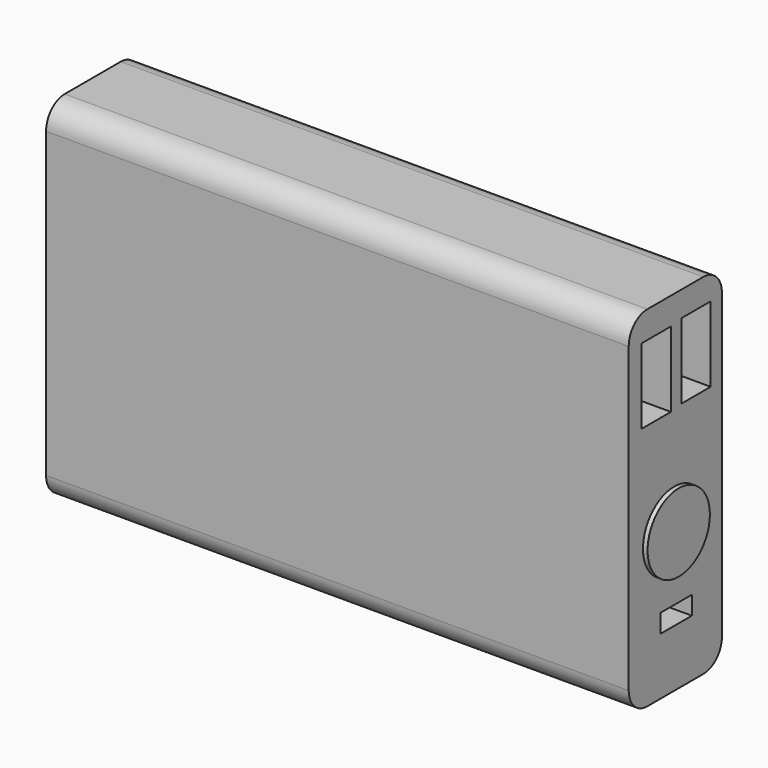
from build123d import *

# Parameters (mm, degrees)
F0_W      = 127
F0_H      = 76.2
F1_DEPTH  = 25.4
F2_R      = 5.08
F4_W      = 8
F4_H      = 16.4
F5_DEPTH  = 16
F6_W      = 8
F6_H      = 16.4
F7_DEPTH  = 16
F8_R      = 8.490397
F9_DEPTH  = 1
F10_W     = 8.591677
F10_H     = 4.027348
F11_DEPTH = 16


with BuildPart() as f1:
    # F0 (on Front) → F1 (new body)
    with BuildSketch(Plane.XZ):
        Rectangle(F0_W, F0_H)
    extrude(amount=F1_DEPTH)

    # F2
    f2_edges = [f1.edges().sort_by_distance(p)[0] for p in [
        (0, -25.4, 38.1),
        (0, 0, 38.1),
        (0, 0, -38.1),
        (0, -25.4, -38.1),
    ]]
    fillet(f2_edges, radius=F2_R)

    # F4 (on face) → F5 (cut)
    with BuildSketch(Plane.YZ.offset(63.5)):
        with Locations((-17.896974, 23.987068)):
            Rectangle(F4_W, F4_H)
    extrude(amount=-F5_DEPTH, mode=Mode.SUBTRACT)

    # F6 (on face) → F7 (cut)
    with BuildSketch(Plane.YZ.offset(63.5)):
        with Locations((-7.068553, 24.406013)):
            Rectangle(F6_W, F6_H)
    extrude(amount=-F7_DEPTH, mode=Mode.SUBTRACT)

    # F8 (on face) → F9 (join)
    with BuildSketch(Plane.YZ.offset(63.5)):
        with Locations((-13.021762, -7.383473)):
            Circle(F8_R)
    extrude(amount=F9_DEPTH)

    # F10 (on face) → F11 (cut)
    with BuildSketch(Plane.YZ.offset(63.5)):
        with Locations((-12.484782, -23.627115)):
            Rectangle(F10_W, F10_H)
    extrude(amount=-F11_DEPTH, mode=Mode.SUBTRACT)


solid = f1.part
